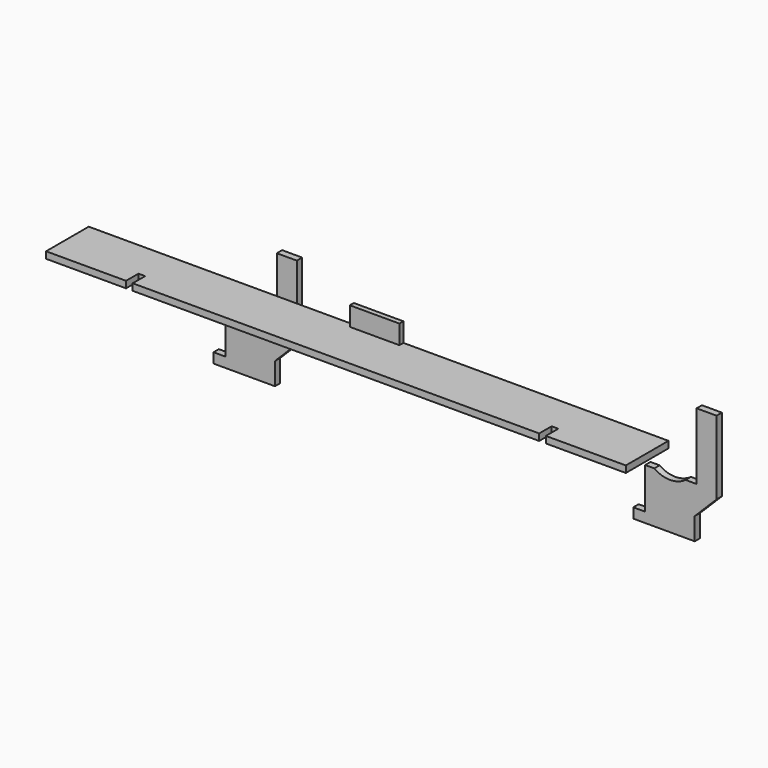
from build123d import *

# Parameters (mm, degrees)
F1_DEPTH = 6.35
F2_W     = 47.244
F2_H     = 4.7625
F3_DEPTH = 36.2458
F4_W     = 47.244
F4_H     = 42.5958
F5_DEPTH = 4.7752
F7_DEPTH = 6.35
F8_W     = 6.35
F8_H     = 9.525
F9_DEPTH = 11.303025


with BuildPart() as f1:
    # F0 (on Top) → F1 (new body)
    with BuildSketch(Plane.XY):
        Polygon((584.2, 160.543773), (31.75, 160.543773), (31.75, 109.743773), (107.95, 109.743773), (107.95, 124.539273), (114.3, 124.539273), (114.3, 109.743773), (501.65, 109.743773), (501.65, 124.539273), (508, 124.539273), (508, 109.743773), (584.2, 109.743773), align=None)
    extrude(amount=F1_DEPTH)

    # F2 (on face) → F3 (cut)
    with BuildSketch(Plane(origin=(0, 0, 0), x_dir=(1, 0, 0), z_dir=(0, 0, -1))):
        with Locations((307.975, -158.162523)):
            Rectangle(F2_W, F2_H)
    extrude(amount=-F3_DEPTH, mode=Mode.SUBTRACT)

    # F4 (on face) → F5 (join)
    with BuildSketch(Plane(origin=(0, 155.781273, 0), x_dir=(-1, 0, 0), z_dir=(0, 1, 0))):
        with Locations((-307.975, 3.175)):
            Rectangle(F4_W, F4_H)
    extrude(amount=F5_DEPTH)


with BuildPart() as f7:
    # F6 (on face) → F7 (new body)
    with BuildSketch(Plane(origin=(0, 160.543773, 0), x_dir=(-1, 0, 0), z_dir=(0, 1, 0))):
        Polygon((-561.980842, -69.85), (-561.980842, -27.5082), (-609.224842, -27.5082), (-609.224842, -48.6791), (-609.224842, -69.85), align=None)
        with BuildLine():
            Line((-609.224842, -27.5082), (-561.980842, -27.5082))
            Line((-561.980842, -27.5082), (-561.974988, -21.158203))
            Line((-561.974988, -21.158203), (-570.707527, -21.158203))
            ThreePointArc((-570.707527, -21.158203), (-585.602842, -25.9842), (-600.498157, -21.158203))
            Line((-600.498157, -21.158203), (-611.002842, -21.158203))
            Line((-611.002842, -21.158203), (-611.002842, 42.3418))
            Line((-611.002842, 42.3418), (-630.052842, 42.3418))
            Line((-630.052842, 42.3418), (-630.052842, -27.8511))
            Line((-630.052842, -27.8511), (-609.224842, -48.6791))
            Line((-609.224842, -48.6791), (-609.224842, -27.5082))
        make_face()
    extrude(amount=F7_DEPTH)

    # F8 (on face) → F9 (join)
    with BuildSketch(Plane(origin=(561.980842, 0, 0), x_dir=(0, -1, 0), z_dir=(-1, 0, 0))):
        with Locations((-163.718773, -65.0875)):
            Rectangle(F8_W, F8_H)
    extrude(amount=F9_DEPTH)


with BuildPart() as f10_1:
    # F10: copy of F7
    add(f7.part.moved(Location((-400.05, 0, 0))))


solid = Compound([f1.part, f7.part, f10_1.part])
